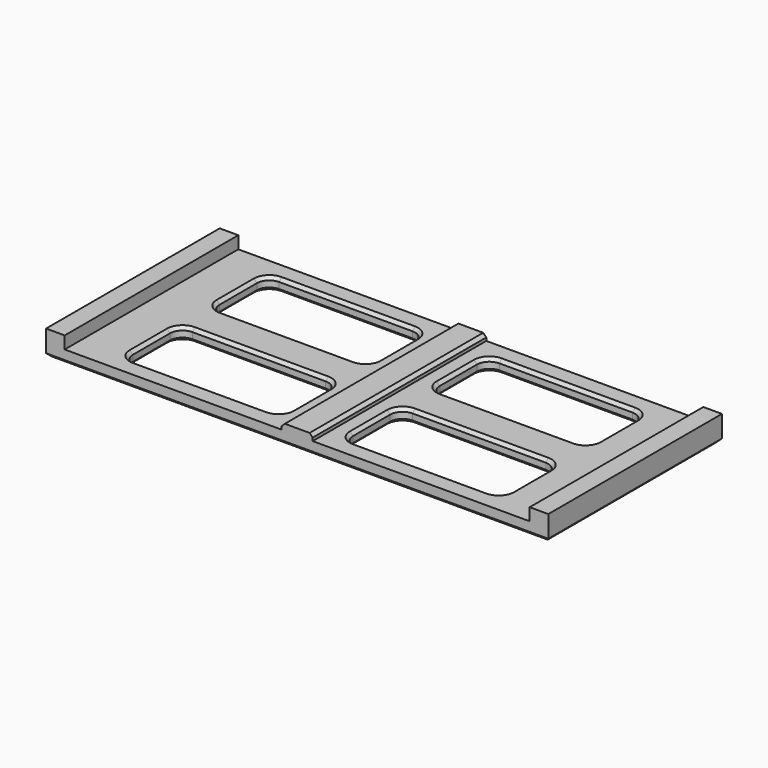
from build123d import *

# Parameters (mm, degrees)
F0_W     = 81
F0_H     = 35
F1_DEPTH = 2
F2_W     = 5
F2_H     = 35
F3_DEPTH = 1
F4_W     = 3
F4_H     = 35
F5_DEPTH = 2
F7_DEPTH = 2.001
F8_SIZE  = 0.5
F9_SIZE  = 0.5


with BuildPart() as f1:
    # F0 (on Top) → F1 (new body)
    with BuildSketch(Plane.XY):
        Rectangle(F0_W, F0_H)
    extrude(amount=F1_DEPTH)

    # F2 (on face) → F3 (join)
    with BuildSketch(Plane.XY.offset(2)):
        Rectangle(F2_W, F2_H)
    extrude(amount=F3_DEPTH)

    # F4 (on face) → F5 (join)
    with BuildSketch(Plane.XY.offset(2)):
        with Locations((-39, 0)):
            Rectangle(F4_W, F4_H)
        with Locations((39, 0)):
            Rectangle(F4_W, F4_H)
    extrude(amount=F5_DEPTH)

    # F6 (on face) → F7 (cut, through all)
    with BuildSketch(Plane.XY.offset(2)):
        with BuildLine():
            Line((-7, 14.5), (-28.5, 14.5))
            ThreePointArc((-28.5, 14.5), (-29.914214, 13.914214), (-30.5, 12.5))
            Line((-30.5, 12.5), (-30.5, 5))
            ThreePointArc((-30.5, 5), (-29.914214, 3.585786), (-28.5, 3))
            Line((-28.5, 3), (-7, 3))
            ThreePointArc((-7, 3), (-5.585786, 3.585786), (-5, 5))
            Line((-5, 5), (-5, 12.5))
            ThreePointArc((-5, 12.5), (-5.585786, 13.914214), (-7, 14.5))
        make_face()
        with BuildLine():
            Line((-30.5, -5), (-30.5, -12.5))
            ThreePointArc((-30.5, -12.5), (-29.914214, -13.914214), (-28.5, -14.5))
            Line((-28.5, -14.5), (-7, -14.5))
            ThreePointArc((-7, -14.5), (-5.585786, -13.914214), (-5, -12.5))
            Line((-5, -12.5), (-5, -5))
            ThreePointArc((-5, -5), (-5.585786, -3.585786), (-7, -3))
            Line((-7, -3), (-28.5, -3))
            ThreePointArc((-28.5, -3), (-29.914214, -3.585786), (-30.5, -5))
        make_face()
        with BuildLine():
            ThreePointArc((7, 14.5), (5.585786, 13.914214), (5, 12.5))
            Line((5, 12.5), (5, 5))
            ThreePointArc((5, 5), (5.585786, 3.585786), (7, 3))
            Line((7, 3), (28.5, 3))
            ThreePointArc((28.5, 3), (29.914214, 3.585786), (30.5, 5))
            Line((30.5, 5), (30.5, 12.5))
            ThreePointArc((30.5, 12.5), (29.914214, 13.914214), (28.5, 14.5))
            Line((28.5, 14.5), (7, 14.5))
        make_face()
        with BuildLine():
            Line((28.5, -3), (7, -3))
            ThreePointArc((7, -3), (5.585786, -3.585786), (5, -5))
            Line((5, -5), (5, -12.5))
            ThreePointArc((5, -12.5), (5.585786, -13.914214), (7, -14.5))
            Line((7, -14.5), (28.5, -14.5))
            ThreePointArc((28.5, -14.5), (29.914214, -13.914214), (30.5, -12.5))
            Line((30.5, -12.5), (30.5, -5))
            ThreePointArc((30.5, -5), (29.914214, -3.585786), (28.5, -3))
        make_face()
    extrude(amount=-F7_DEPTH, mode=Mode.SUBTRACT)

    # F8
    f8_edges = [f1.edges().sort_by_distance(p)[0] for p in [
        (0, -17.5, 0),
        (40.5, 0, 0),
        (0, 17.5, 0),
        (-40.5, 0, 0),
    ]]
    chamfer(f8_edges, length=F8_SIZE)

    # F9
    f9_edges = [f1.edges().sort_by_distance(p)[0] for p in [
        (2.5, 0, 3),
        (-2.5, 0, 3),
        (17.75, -14.5, 2),
        (17.75, 3, 2),
        (-17.75, -3, 2),
        (-17.75, 3, 2),
        (-17.75, -3, 0),
        (-17.75, 14.5, 0),
        (17.75, 14.5, 0),
        (17.75, -3, 0),
    ]]
    chamfer(f9_edges, length=F9_SIZE)


solid = f1.part
